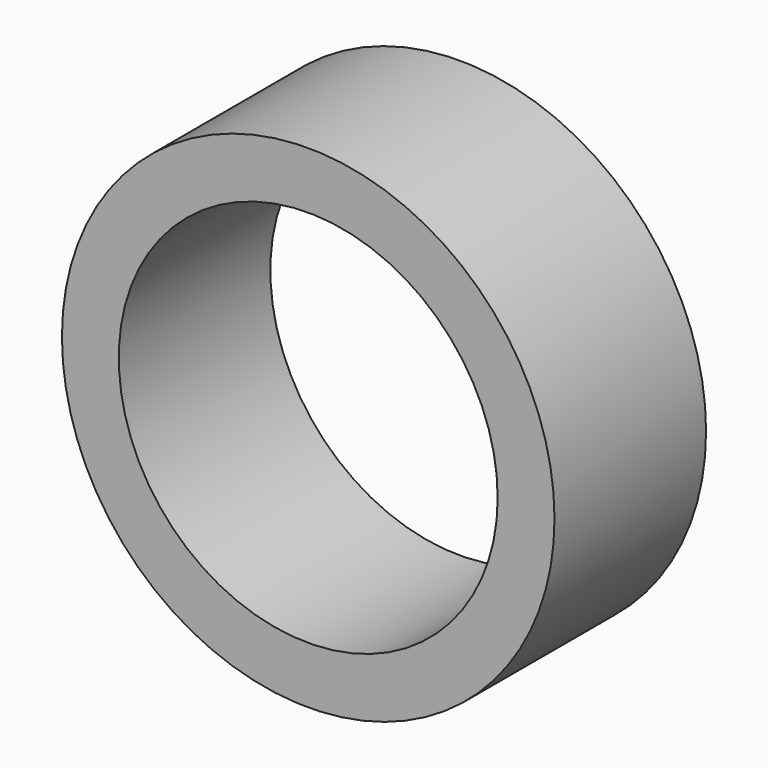
from build123d import *

# Parameters (mm, degrees)
CYLINDER007_R          = 5
CYLINDER007_DEPTH      = 5
CYLINDER007_ROLL_ANGLE = 90
CYLINDER008_R          = 6.5
CYLINDER008_DEPTH      = 5
CYLINDER008_ROLL_ANGLE = 90


with BuildPart() as cylinder007:
    # Cylinder007 → Cylinder007 (new body)
    with BuildSketch(Plane.XY):
        Circle(CYLINDER007_R)
    extrude(amount=CYLINDER007_DEPTH)


with BuildPart() as cylinder007_1:
    # Cylinder007 roll: moved
    add(cylinder007.part.rotate(Axis((0, 0, 0), (1, 0, 0)), CYLINDER007_ROLL_ANGLE))


with BuildPart() as cylinder007_2:
    # Cylinder007 placement: moved
    add(cylinder007_1.part.moved(Location((-5.4, 46, 0))))


with BuildPart() as cut002:
    # Cylinder008 → Cylinder008 (new body)
    with BuildSketch(Plane.XY):
        Circle(CYLINDER008_R)
    extrude(amount=CYLINDER008_DEPTH)


with BuildPart() as cut002_1:
    # Cylinder008 roll: moved
    add(cut002.part.rotate(Axis((0, 0, 0), (1, 0, 0)), CYLINDER008_ROLL_ANGLE))


with BuildPart() as cut002_2:
    # Cylinder008 placement: moved
    add(cut002_1.part.moved(Location((-5.4, 46, 0))))

    # Cut002: cut Cylinder007
    add(cylinder007_2.part, mode=Mode.SUBTRACT)


with BuildPart() as cut002_3:
    # Cut002 placement: moved
    add(cut002_2.part.moved(Location((0, -64, 0))))


solid = cut002_3.part
